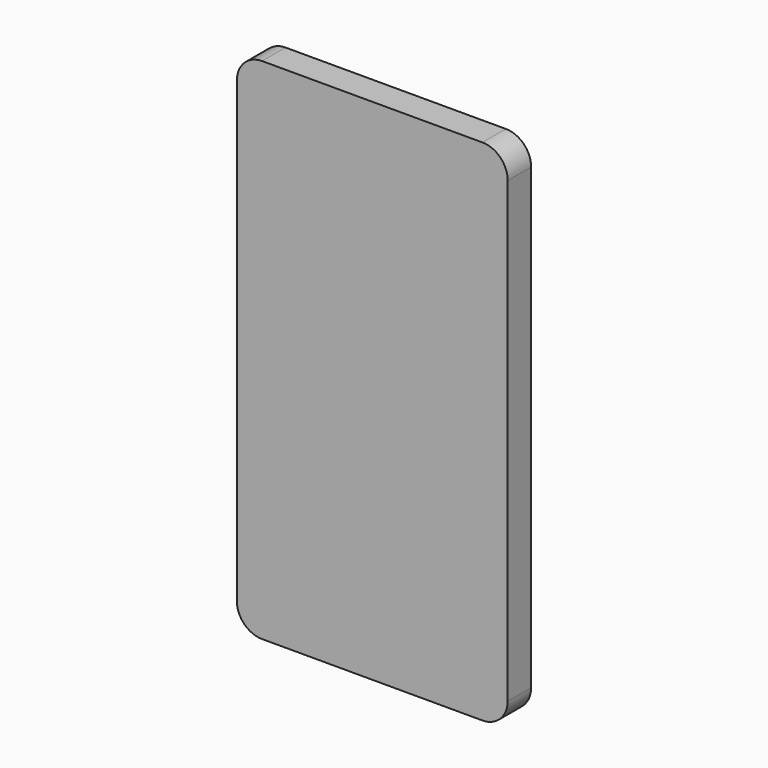
from build123d import *

# Parameters (mm, degrees)
F2_DEPTH = 7.366
F3_W     = 7.4584446847
F3_H     = 12.3723968863
F4_DEPTH = 0.635
F6_DEPTH = 0.635
F7_R     = 1.3168928059
F8_DEPTH = 1.27


with BuildPart() as f2:
    # F1 (on face) → F2 (new body)
    with BuildSketch(Plane.XZ):
        with BuildLine():
            ThreePointArc((25.7346183062, 53.1512381673), (23.8747463667, 57.6413662278), (19.3846183062, 59.5012381673))
            Line((19.3846183062, 59.5012381673), (-36.008353734, 59.5012381673))
            ThreePointArc((-36.008353734, 59.5012381673), (-40.4984817946, 57.6413662278), (-42.358353734, 53.1512381673))
            Line((-42.358353734, 53.1512381673), (-42.358353734, -62.0809899807))
            ThreePointArc((-42.358353734, -62.0809899807), (-40.4984817946, -66.5711180412), (-36.008353734, -68.4309899807))
            Line((-36.008353734, -68.4309899807), (19.3846183062, -68.4309899807))
            ThreePointArc((19.3846183062, -68.4309899807), (23.8747463667, -66.5711180412), (25.7346183062, -62.0809899807))
            Line((25.7346183062, -62.0809899807), (25.7346183062, 53.1512381673))
        make_face()
    extrude(amount=F2_DEPTH)

    # F3 (on face) → F4 (join)
    with BuildSketch(Plane(origin=(0, 0, 0), x_dir=(-1, 0, 0), z_dir=(0, 1, 0))):
        with Locations((-14.2369214445, 43.9156256616)):
            Rectangle(F3_W, F3_H)
    extrude(amount=F4_DEPTH)

    # F5 (on face) → F6 (join)
    with BuildSketch(Plane(origin=(0, 0, 0), x_dir=(-1, 0, 0), z_dir=(0, 1, 0))):
        with BuildLine():
            ThreePointArc((-17.9661437869, 37.7294272184), (-14.2369214445, 34.0002048761), (-10.5076991022, 37.7294272184))
            Line((-10.5076991022, 37.7294272184), (-17.9661437869, 37.7294272184))
        make_face()
        with BuildLine():
            Line((-17.9661437869, 50.1018241048), (-10.5076991022, 50.1018241048))
            ThreePointArc((-10.5076991022, 50.1018241048), (-14.2369214445, 53.8310464472), (-17.9661437869, 50.1018241048))
        make_face()
    extrude(amount=F6_DEPTH)

    # F7 (on face) → F8 (join)
    with BuildSketch(Plane(origin=(0, 0, 0), x_dir=(-1, 0, 0), z_dir=(0, 1, 0))):
        with BuildLine():
            ThreePointArc((-19.3846183062, 59.5012381673), (-23.8747463667, 57.6413662278), (-25.7346183062, 53.1512381673))
            Line((-25.7346183062, 53.1512381673), (-25.7346183062, -62.0809899807))
            ThreePointArc((-25.7346183062, -62.0809899807), (-23.8747463667, -66.5711180412), (-19.3846183062, -68.4309899807))
            Line((-19.3846183062, -68.4309899807), (36.008353734, -68.4309899807))
            ThreePointArc((36.008353734, -68.4309899807), (40.4984817946, -66.5711180412), (42.358353734, -62.0809899807))
            Line((42.358353734, -62.0809899807), (42.358353734, 53.1512381673))
            ThreePointArc((42.358353734, 53.1512381673), (40.4984817946, 57.6413662278), (36.008353734, 59.5012381673))
            Line((36.008353734, 59.5012381673), (-19.3846183062, 59.5012381673))
        make_face()
        with BuildLine():
            Line((-10.5076991022, 50.1018241048), (-10.5076991022, 37.7294272184))
            ThreePointArc((-10.5076991022, 37.7294272184), (-14.2369214445, 34.0002048761), (-17.9661437869, 37.7294272184))
            Line((-17.9661437869, 37.7294272184), (-17.9661437869, 50.1018241048))
            ThreePointArc((-17.9661437869, 50.1018241048), (-14.2369214445, 53.8310464472), (-10.5076991022, 50.1018241048))
        make_face(mode=Mode.SUBTRACT)
        with Locations((-6.3106212765, 47.3092123866)):
            Circle(F7_R, mode=Mode.SUBTRACT)
        with Locations((-6.3106212765, 47.3092123866)):
            Circle(F7_R)
    extrude(amount=-F8_DEPTH)


solid = f2.part
